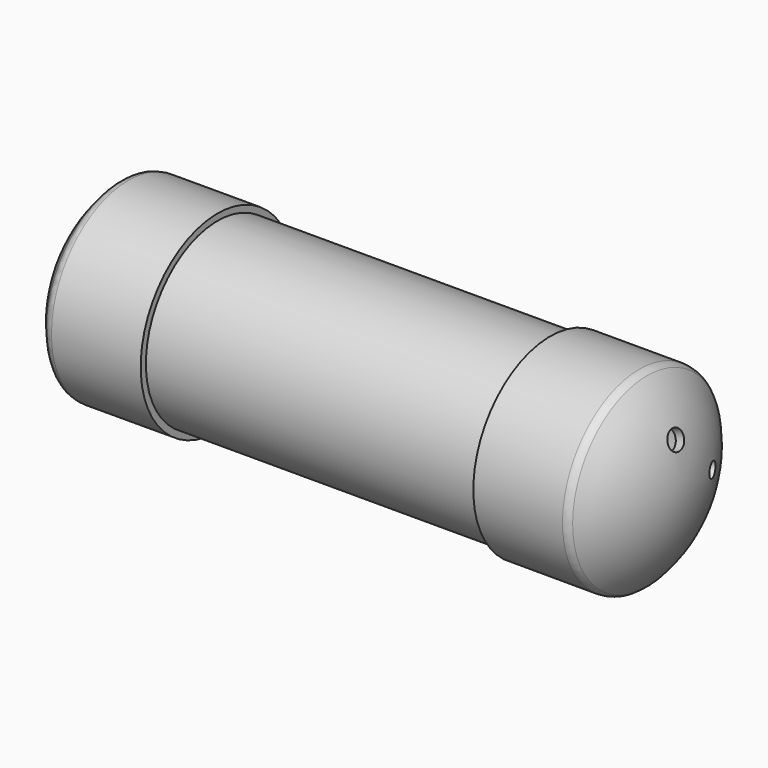
from build123d import *

# Parameters (mm, degrees)
F0_R          = 109.5375
F0_R_2        = 101.6
F1_DEPTH      = 304.8
F1_DEPTH_BACK = 304.8
F4_R          = 12.7
F9_R          = 9.128125
F10_DEPTH     = 193.8313060276
F14_R         = 7.3421875
F15_DEPTH     = 117.4760033852
F18_R         = 11.90625
F19_DEPTH     = 193.8313071512


with BuildPart() as f1:
    # F0 (on Right) → F1 (new body, two sides)
    with BuildSketch(Plane.YZ) as f1_sk:
        Circle(F0_R)
        Circle(F0_R_2, mode=Mode.SUBTRACT)
    extrude(amount=F1_DEPTH)
    extrude(f1_sk.sketch, amount=-F1_DEPTH_BACK)

    # F14 (on line) → F15 (cut, through all)
    with BuildSketch(Plane.XY):
        with Locations((-174.625, 0)):
            Circle(F14_R)
        with Locations((-104.775, 0)):
            Circle(F14_R)
        with Locations((-34.925, 0)):
            Circle(F14_R)
        with Locations((34.925, 0)):
            Circle(F14_R)
        with Locations((104.775, 0)):
            Circle(F14_R)
        with Locations((174.625, 0)):
            Circle(F14_R)
    extrude(amount=-F15_DEPTH, mode=Mode.SUBTRACT)


with BuildPart() as f3:
    # F2 (on Top) → F3 (revolve)
    with BuildSketch(Plane.XY):
        with BuildLine():
            Line((203.2, 117.475), (203.2, 109.5375))
            Line((203.2, 109.5375), (304.8, 109.5375))
            Line((304.8, 109.5375), (304.8, 104.4575))
            Line((304.8, 104.4575), (314.96, 104.4575))
            ThreePointArc((314.96, 104.4575), (345.2464785115, 56.0835613009), (355.8267846365, 0))
            Line((355.8267846365, 0), (366.7125, 0))
            ThreePointArc((366.7125, 0), (353.9123297313, 63.6832901577), (317.5, 117.475))
            Line((317.5, 117.475), (203.2, 117.475))
        make_face()
    revolve(axis=Axis((361.2696423182, 0, 0), (1, 0, 0)))

    # F4
    f4_edges = [f3.edges().sort_by_distance(p)[0] for p in [
        (317.5, -117.475, 0),
    ]]
    fillet(f4_edges, radius=F4_R)


with BuildPart() as f5_1:
    # F5: instance of F3
    add(f3.part.mirror(Plane.YZ))


with BuildPart() as f3_1:
    add(f3.part)

    # F9 (on face) → F10 (cut, through all)
    with BuildSketch(Plane(origin=(179.4301154209, 65.3072211442, 0), x_dir=(-0.3420201433, 0.9396926208, 0), z_dir=(0.9396926208, 0.3420201433, 0))):
        with Locations((-69.4984931238, 1.0757157579)):
            Circle(F9_R)
    extrude(amount=F10_DEPTH, mode=Mode.SUBTRACT)

    # F18 (on line) → F19 (cut, through all)
    with BuildSketch(Plane(origin=(179.4301154209, 0, 65.3072211442), x_dir=(0, 1, 0), z_dir=(0.9396926208, 0, 0.3420201433))):
        with Locations((0, -69.4984931238)):
            Circle(F18_R)
    extrude(amount=F19_DEPTH, mode=Mode.SUBTRACT)


solid = Compound([f1.part, f5_1.part, f3_1.part])
